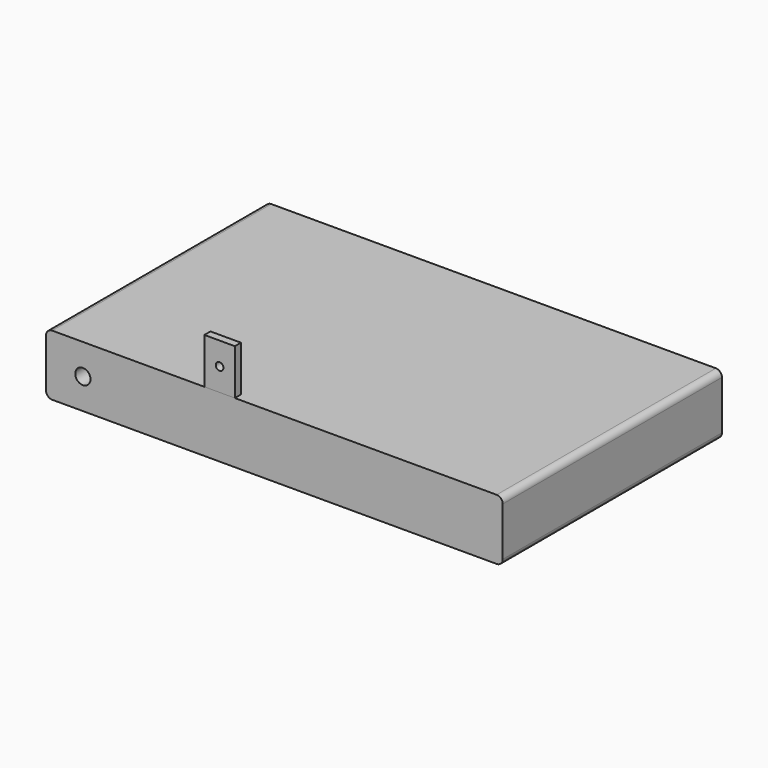
from build123d import *

# Parameters (mm, degrees)
F0_W     = 1500
F0_H     = 200
F1_DEPTH = 900
F2_D     = 50
F3_R     = 20
F4_W     = 100
F4_H     = 150
F4_R     = 12.5
F5_DEPTH = 25


with BuildPart() as f1:
    # F0 (on Front) → F1 (new body)
    with BuildSketch(Plane.XZ):
        with Locations((-189.1812320633, 100)):
            Rectangle(F0_W, F0_H)
    extrude(amount=F1_DEPTH)

    # F2 (through all)
    with Locations(Plane(origin=(0, 0, 0), x_dir=(1, 0, 0), z_dir=(0, 1, 0))):
        with Locations((-818.3439970016, -100)):
            Hole(F2_D / 2)

    # F3
    f3_edges = [f1.edges().sort_by_distance(p)[0] for p in [
        (-939.181232, -450, 200),
        (-939.181232, -450, 0),
        (560.818768, -450, 200),
        (560.818768, -450, 0),
    ]]
    fillet(f3_edges, radius=F3_R)


with BuildPart() as f5:
    # F4 (on face) → F5 (new body)
    with BuildSketch(Plane.XZ.offset(900)):
        with Locations((-369.1812320633, 275)):
            Rectangle(F4_W, F4_H)
        with Locations((-369.1812320633, 275)):
            Circle(F4_R, mode=Mode.SUBTRACT)
    extrude(amount=-F5_DEPTH)


solid = Compound([f1.part, f5.part])
